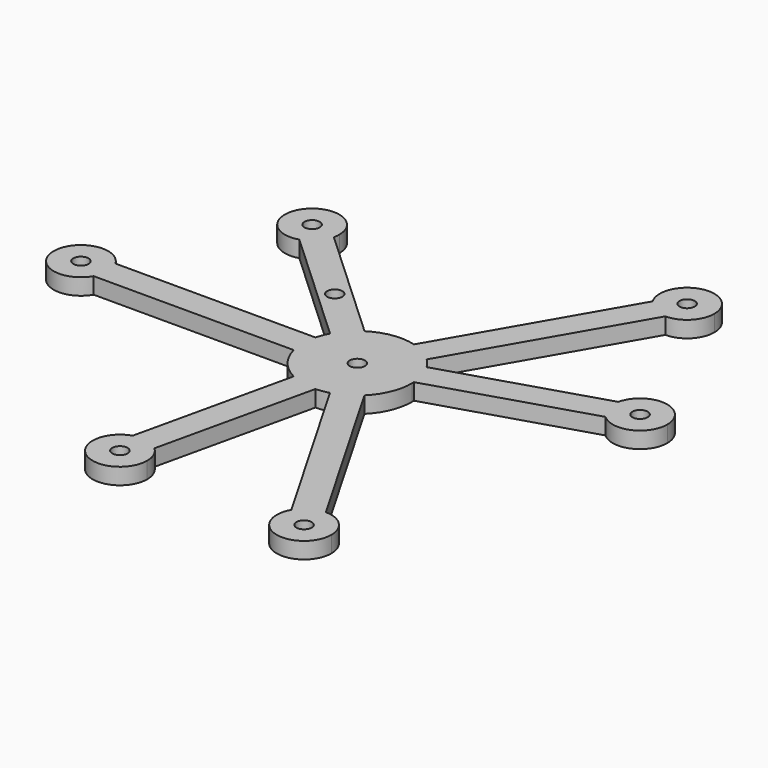
from build123d import *

# Parameters (mm, degrees)
F0_R     = 1.4
F1_DEPTH = 3


with BuildPart() as f1:
    # F0 (on Top) → F1 (new body)
    with BuildSketch(Plane.XY):
        with BuildLine():
            ThreePointArc((7.006293, -7.135255), (9.221251, -3.868919), (10, 0))
            ThreePointArc((10, 0), (9.997114, 0.240249), (9.988456, 0.48036))
            ThreePointArc((9.988456, 0.48036), (9.551191, 2.962221), (8.507346, 5.255956))
            ThreePointArc((8.507346, 5.255956), (7.813526, 6.240899), (7.006293, 7.135255))
            ThreePointArc((7.006293, 7.135255), (5, 8.660254), (2.676166, 9.635255))
            ThreePointArc((2.676166, 9.635255), (-1.498014, 9.887161), (-5.410232, 8.410077))
            ThreePointArc((-5.410232, 8.410077), (-7.340954, 6.790464), (-8.805464, 4.7396))
            ThreePointArc((-8.805464, 4.7396), (-9.31154, 3.646263), (-9.682458, 2.5))
            ThreePointArc((-9.682458, 2.5), (-10, 0), (-9.682458, -2.5))
            ThreePointArc((-9.682458, -2.5), (-7.813526, -6.240899), (-4.578224, -8.890437))
            ThreePointArc((-4.578224, -8.890437), (-2.210237, -9.752684), (0.298118, -9.995555))
            ThreePointArc((0.298118, -9.995555), (1.498014, -9.887161), (2.676166, -9.635255))
            ThreePointArc((2.676166, -9.635255), (5, -8.660254), (7.006293, -7.135255))
        make_face()
        Circle(F0_R, mode=Mode.SUBTRACT)
        with BuildLine():
            ThreePointArc((8.507346, 5.255956), (9.551191, 2.962221), (9.988456, 0.48036))
            Line((9.988456, 0.48036), (38.152449, 9.215183))
            ThreePointArc((38.152449, 9.215183), (36.772085, 11.40455), (36.671338, 13.990779))
            Line((36.671338, 13.990779), (8.507346, 5.255956))
        make_face()
        with BuildLine():
            Line((25.353747, -38.913978), (7.006293, -7.135255))
            ThreePointArc((7.006293, -7.135255), (5, -8.660254), (2.676166, -9.635255))
            Line((2.676166, -9.635255), (21.02362, -41.413978))
            ThreePointArc((21.02362, -41.413978), (22.853747, -39.583851), (25.353747, -38.913978))
        make_face()
        with BuildLine():
            ThreePointArc((36.671338, 13.990779), (36.772085, 11.40455), (38.152449, 9.215183))
            ThreePointArc((38.152449, 9.215183), (43.550658, 8.304385), (46.547681, 12.88566))
            ThreePointArc((46.547681, 12.88566), (42.103688, 17.85465), (36.671338, 13.990779))
        make_face()
        with Locations((41.547681, 12.88566)):
            Circle(F0_R, mode=Mode.SUBTRACT)
        with BuildLine():
            ThreePointArc((30.353747, -43.913978), (28.889281, -40.378445), (25.353747, -38.913978))
            ThreePointArc((25.353747, -38.913978), (22.853747, -39.583851), (21.02362, -41.413978))
            ThreePointArc((21.02362, -41.413978), (24.059652, -48.743608), (30.353747, -43.913978))
        make_face()
        with Locations((25.353747, -43.913978)):
            Circle(F0_R, mode=Mode.SUBTRACT)
        with BuildLine():
            ThreePointArc((2.676166, 9.635255), (5, 8.660254), (7.006293, 7.135255))
            Line((7.006293, 7.135255), (25.353747, 38.913978))
            ThreePointArc((25.353747, 38.913978), (22.853747, 39.583851), (21.02362, 41.413978))
            Line((21.02362, 41.413978), (2.676166, 9.635255))
        make_face()
        with BuildLine():
            Line((-6.219299, -38.7537), (0.298118, -9.995555))
            ThreePointArc((0.298118, -9.995555), (-2.210237, -9.752684), (-4.578224, -8.890437))
            Line((-4.578224, -8.890437), (-11.095641, -37.648582))
            ThreePointArc((-11.095641, -37.648582), (-8.509413, -37.547835), (-6.219299, -38.7537))
        make_face()
        with BuildLine():
            ThreePointArc((21.02362, 41.413978), (22.853747, 39.583851), (25.353747, 38.913978))
            ThreePointArc((25.353747, 38.913978), (28.889281, 40.378445), (30.353747, 43.913978))
            ThreePointArc((30.353747, 43.913978), (24.059652, 48.743608), (21.02362, 41.413978))
        make_face()
        with Locations((25.353747, 43.913978)):
            Circle(F0_R, mode=Mode.SUBTRACT)
        with BuildLine():
            ThreePointArc((-4.614531, -42.424177), (-5.033256, -40.421199), (-6.219299, -38.7537))
            ThreePointArc((-6.219299, -38.7537), (-8.509413, -37.547835), (-11.095641, -37.648582))
            ThreePointArc((-11.095641, -37.648582), (-12.580543, -46.449444), (-4.614531, -42.424177))
        make_face()
        with Locations((-9.614531, -42.424177)):
            Circle(F0_R, mode=Mode.SUBTRACT)
        with BuildLine():
            ThreePointArc((-8.805464, 4.7396), (-7.340954, 6.790464), (-5.410232, 8.410077))
            Line((-5.410232, 8.410077), (-27.056807, 28.433398))
            ThreePointArc((-27.056807, 28.433398), (-28.262672, 26.143285), (-30.452039, 24.762921))
            Line((-30.452039, 24.762921), (-8.805464, 4.7396))
        make_face()
        with Locations((-15.966575, 14.769258)):
            Circle(F0_R, mode=Mode.SUBTRACT)
        with BuildLine():
            Line((-46.377367, -2.5), (-9.682458, -2.5))
            ThreePointArc((-9.682458, -2.5), (-10, 0), (-9.682458, 2.5))
            Line((-9.682458, 2.5), (-46.377367, 2.5))
            ThreePointArc((-46.377367, 2.5), (-45.877865, 1.294095), (-45.707495, 0))
            ThreePointArc((-45.707495, 0), (-45.877865, -1.294095), (-46.377367, -2.5))
        make_face()
        with BuildLine():
            ThreePointArc((-30.452039, 24.762921), (-28.262672, 26.143285), (-27.056807, 28.433398))
            ThreePointArc((-27.056807, 28.433398), (-26.96416, 28.982509), (-26.933149, 29.538517))
            ThreePointArc((-26.933149, 29.538517), (-35.958417, 32.504528), (-30.452039, 24.762921))
        make_face()
        with Locations((-31.933149, 29.538517)):
            Circle(F0_R, mode=Mode.SUBTRACT)
        with BuildLine():
            ThreePointArc((-46.377367, 2.5), (-55.707495, 0), (-46.377367, -2.5))
            ThreePointArc((-46.377367, -2.5), (-45.877865, -1.294095), (-45.707495, 0))
            ThreePointArc((-45.707495, 0), (-45.877865, 1.294095), (-46.377367, 2.5))
        make_face()
        with Locations((-50.707495, 0)):
            Circle(F0_R, mode=Mode.SUBTRACT)
    extrude(amount=F1_DEPTH)


solid = f1.part
